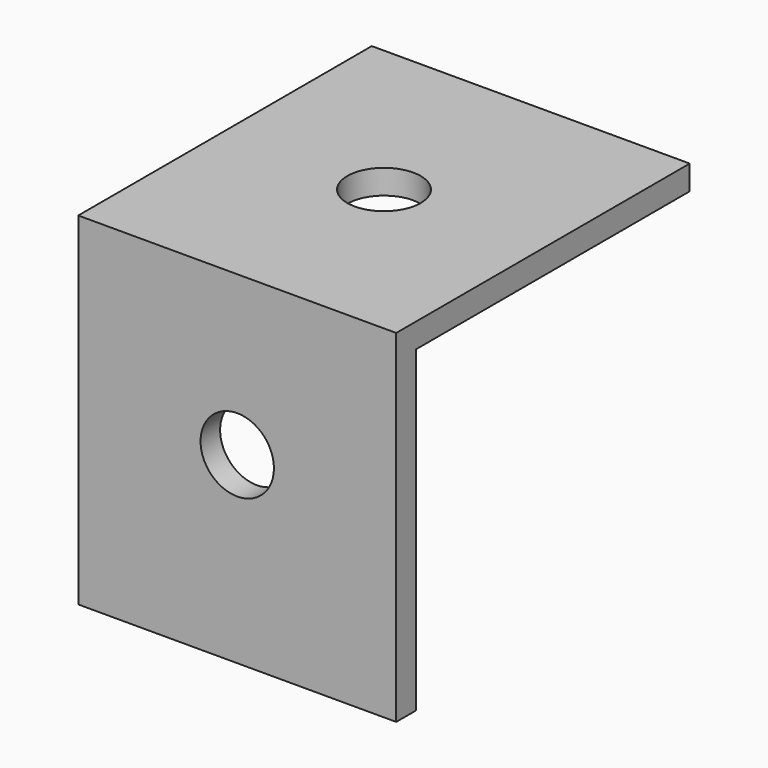
from build123d import *

# Parameters (mm, degrees)
F1_DEPTH = 13
F2_R     = 1.5
F3_DEPTH = 1
F4_R     = 1.5
F5_DEPTH = 1


with BuildPart() as f1:
    # F0 (on Right) → F1 (new body)
    with BuildSketch(Plane.YZ):
        Polygon((-7.5, -7), (-6.5, -7), (-6.5, 6), (7.5, 6), (7.5, 7), (-7.5, 7), align=None)
    extrude(amount=F1_DEPTH)

    # F2 (on face) → F3 (cut, through all)
    with BuildSketch(Plane.XY.offset(7)):
        with Locations((6.5, 0)):
            Circle(F2_R)
    extrude(amount=-F3_DEPTH, mode=Mode.SUBTRACT)

    # F4 (on face) → F5 (cut, through all)
    with BuildSketch(Plane.XZ.offset(7.5)):
        with Locations((6.5, 0.5)):
            Circle(F4_R)
    extrude(amount=-F5_DEPTH, mode=Mode.SUBTRACT)


solid = f1.part
